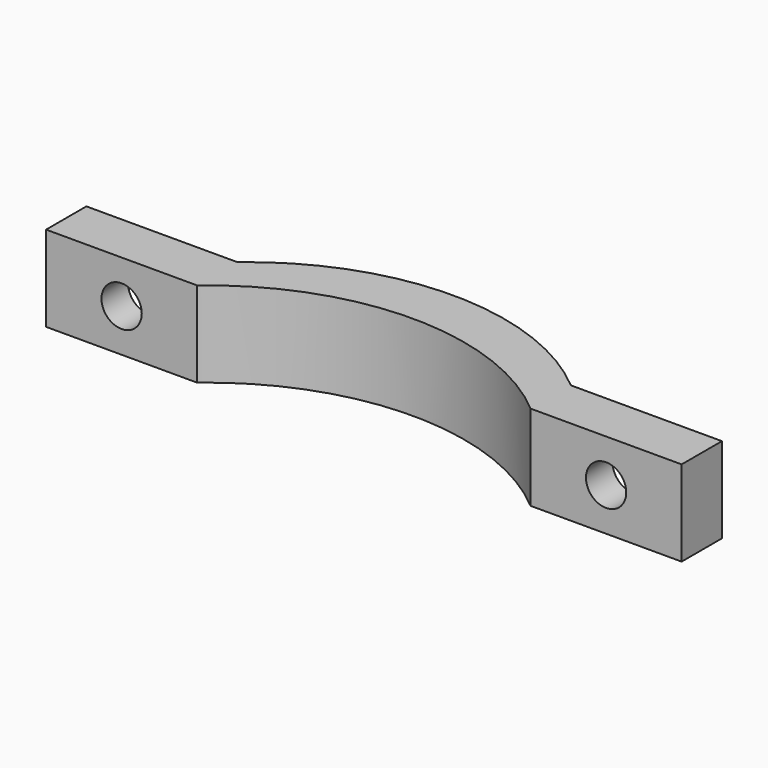
from build123d import *

# Parameters (mm, degrees)
F1_DEPTH = 8.5
F3_D     = 8
F3_DEPTH = 0.5
F3_TIP   = 2.4034424761
F4_D     = 4
F4_DEPTH = 12
F4_START = 1.7017212
F4_TIP   = 1.2017212381


with BuildPart() as f1:
    # F0 (on Top) → F1 (new body)
    with BuildSketch(Plane.XY):
        with BuildLine():
            ThreePointArc((-8.8450443894, 11.325138621), (7.7049556106, 17.425138621), (24.2549556106, 11.325138621))
            Line((24.2549556106, 11.325138621), (39.2549556106, 11.325138621))
            Line((39.2549556106, 11.325138621), (39.2549556106, 16.325138621))
            Line((39.2549556106, 16.325138621), (24.2549556106, 16.325138621))
            ThreePointArc((24.2549556106, 16.325138621), (7.7049556106, 22.425138621), (-8.8450443894, 16.325138621))
            Line((-8.8450443894, 16.325138621), (-23.8450443894, 16.325138621))
            Line((-23.8450443894, 16.325138621), (-23.8450443894, 11.325138621))
            Line((-23.8450443894, 11.325138621), (-8.8450443894, 11.325138621))
        make_face()
    extrude(amount=F1_DEPTH)

    # F3
    with Locations(Plane(origin=(0, 16.325138621, 0), x_dir=(-1, 0, 0), z_dir=(0, 1, 0))):
        with Locations((-31.7569042742, 4.25), (16.3450443894, 4.25)):
            Hole(F3_D / 2, depth=F3_DEPTH)
            with Locations((0, 0, -(F3_DEPTH + F3_TIP / 2))):  # 118° drill point
                Cone(0, F3_D / 2, F3_TIP, mode=Mode.SUBTRACT)

    # F4
    # its depths count from where the whole tool has entered the part; down to there all is cleared
    with Locations(Plane(origin=(0, 16.325138621, 0), x_dir=(-1, 0, 0), z_dir=(0, 1, 0)).offset(-F4_START)):
        with Locations((-31.7569042742, 4.25), (16.3450443894, 4.25)):
            Hole(F4_D / 2, depth=F4_DEPTH)
            with Locations((0, 0, -(F4_DEPTH + F4_TIP / 2))):  # 118° drill point
                Cone(0, F4_D / 2, F4_TIP, mode=Mode.SUBTRACT)


solid = f1.part
